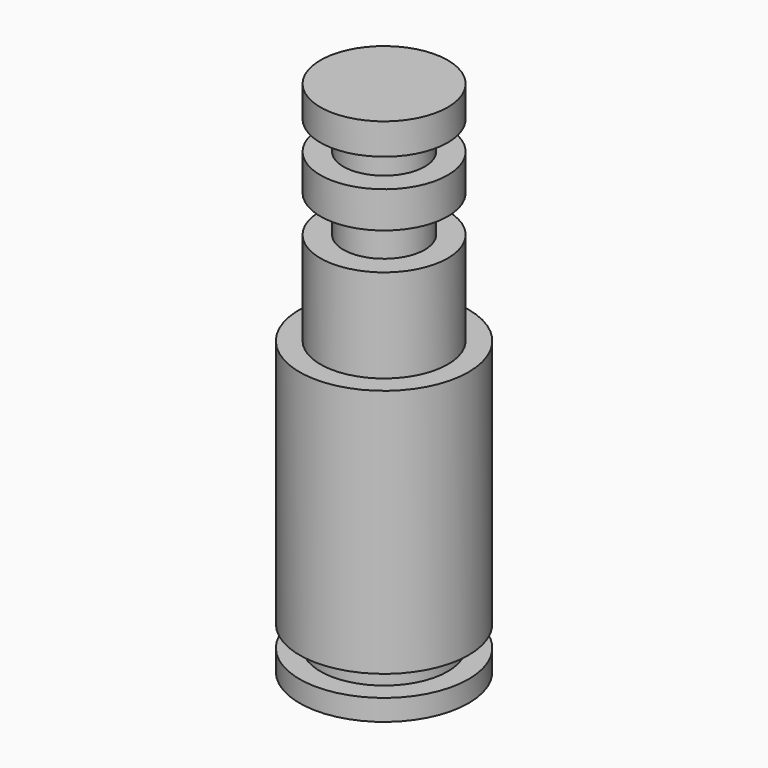
from build123d import *


with BuildPart() as f1:
    # F0 (on Front) → F1 (revolve)
    with BuildSketch(Plane.XZ):
        Polygon((15.295213, 54.358058), (0, 54.358058), (0, -72.538787), (15.295213, -72.538787), (15.295213, -69.998787), (20.306153, -69.998787), (20.306153, -64.918787), (15.295213, -64.918787), (15.295213, -59.838787), (20.306153, -59.838787), (20.306153, 0), (15.295213, 0), (15.295213, 22.432629), (9.770806, 22.432629), (9.770806, 31.281661), (15.295213, 31.281661), (15.295213, 40.005002), (9.770806, 40.005002), (9.770806, 46.884794), (15.295213, 46.884794), align=None)
    revolve(axis=Axis((0, 0, -9.090364), (0, 0, -1)))


solid = f1.part
